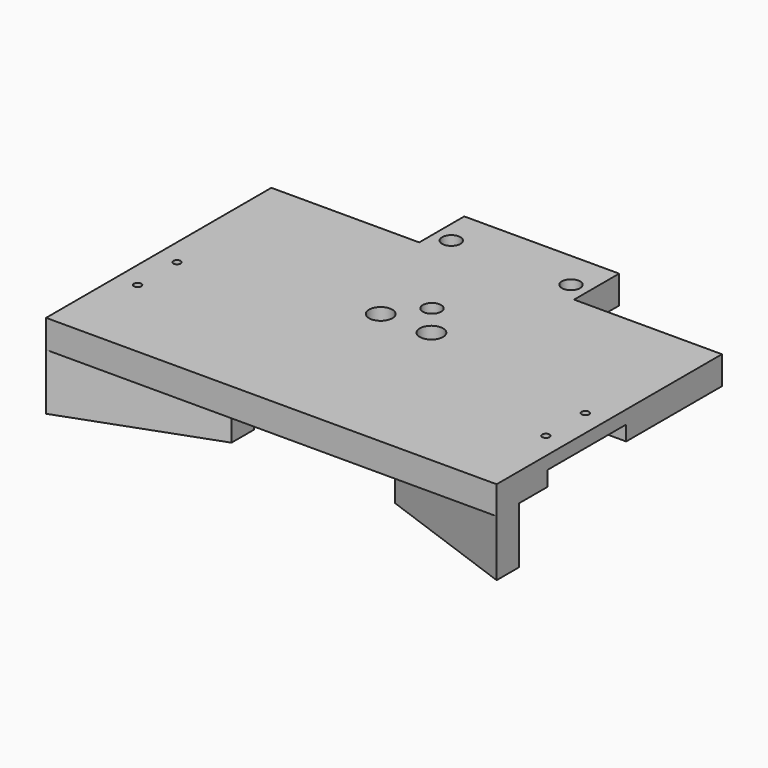
from build123d import *

# Parameters (mm, degrees)
SKETCH_W        = 160
SKETCH_H        = 100
PAD_DEPTH       = 10
PAD008_DEPTH    = 20
SKETCH029_R     = 4.15
POCKET017_DEPTH = 10
SKETCH031_W     = 55
SKETCH031_H     = 10
PAD010_DEPTH    = 20
SKETCH032_R     = 3
PAD011_DEPTH    = 2
SKETCH033_R     = 1.85
POCKET018_DEPTH = 12.001
SKETCH034_R     = 3.25
POCKET019_DEPTH = 5
SKETCH035_W     = 15
SKETCH035_H     = 35
POCKET020_DEPTH = 5.3
SKETCH036_R     = 1.3
POCKET021_DEPTH = 4.701


with BuildPart() as part:
    # Sketch → Pad (new body)
    with BuildSketch(Plane.XY):
        with Locations((80, 50)):
            Rectangle(SKETCH_W, SKETCH_H)
    extrude(amount=PAD_DEPTH)

    # Sketch001 (on Face5 of Pad) → Pad008 (join)
    with BuildSketch(Plane(origin=(0, 0, 0), x_dir=(1, 0, 0), z_dir=(0, 0, -1))):
        Polygon((0, -10), (0, 0), (51, -18.562482), (51, -28.562482), align=None)
        Polygon((160, 0), (160, -10), (109, -28.562482), (109, -18.562482), align=None)
    extrude(amount=PAD008_DEPTH)

    # Sketch029 (on Face2 of Pad008) → Pocket017 (cut)
    with BuildSketch(Plane(origin=(0, 0, 0), x_dir=(1, 0, 0), z_dir=(0, 0, -1))):
        with Locations((71, -59.794095)):
            Circle(SKETCH029_R)
        with Locations((89, -59.794095)):
            Circle(SKETCH029_R)
    extrude(amount=-POCKET017_DEPTH, mode=Mode.SUBTRACT)

    # Sketch031 (on Face6 of Pocket017) → Pad010 (join)
    with BuildSketch(Plane(origin=(0, 100, 0), x_dir=(-1, 0, 0), z_dir=(0, 1, 0))):
        with Locations((-80, 5)):
            Rectangle(SKETCH031_W, SKETCH031_H)
    extrude(amount=PAD010_DEPTH)

    # Sketch032 (on Face17 of Pad010) → Pad011 (join)
    with BuildSketch(Plane(origin=(0, 0, 0), x_dir=(1, 0, 0), z_dir=(0, 0, -1))):
        with Locations((80, -71.294095)):
            Circle(SKETCH032_R)
        with Locations((101.25, -106.449251)):
            Circle(SKETCH032_R)
        with Locations((58.75, -106.449251)):
            Circle(SKETCH032_R)
    extrude(amount=PAD011_DEPTH)

    # Sketch033 (on Face26 of Pad011) → Pocket018 (cut, through all)
    with BuildSketch(Plane(origin=(0, 0, -2), x_dir=(1, 0, 0), z_dir=(0, 0, -1))):
        with Locations((58.75, -106.449251)):
            Circle(SKETCH033_R)
        with Locations((101.25, -106.449251)):
            Circle(SKETCH033_R)
        with Locations((80, -71.294095)):
            Circle(SKETCH033_R)
    extrude(amount=-POCKET018_DEPTH, mode=Mode.SUBTRACT)

    # Sketch034 (on Face5 of Pocket018) → Pocket019 (cut)
    with BuildSketch(Plane.XY.offset(10)):
        with Locations((58.75, 106.449251)):
            Circle(SKETCH034_R)
        with Locations((101.25, 106.449251)):
            Circle(SKETCH034_R)
        with Locations((80, 71.294095)):
            Circle(SKETCH034_R)
    extrude(amount=-POCKET019_DEPTH, mode=Mode.SUBTRACT)

    # Sketch035 (on Face4 of Pocket019) → Pocket020 (cut)
    with BuildSketch(Plane(origin=(0, 0, 0), x_dir=(1, 0, 0), z_dir=(0, 0, -1))):
        with Locations((152.5, -40)):
            Rectangle(SKETCH035_W, SKETCH035_H)
        with Locations((7.5, -40)):
            Rectangle(SKETCH035_W, SKETCH035_H)
    extrude(amount=-POCKET020_DEPTH, mode=Mode.SUBTRACT)

    # Sketch036 (on Face15 of Pocket020) → Pocket021 (cut, through all)
    with BuildSketch(Plane(origin=(0, 0, 5.3), x_dir=(1, 0, 0), z_dir=(0, 0, -1))):
        with Locations((152.5, -31.25)):
            Circle(SKETCH036_R)
        with Locations((152.5, -48.75)):
            Circle(SKETCH036_R)
        with Locations((7.5, -31.25)):
            Circle(SKETCH036_R)
        with Locations((7.5, -48.75)):
            Circle(SKETCH036_R)
    extrude(amount=-POCKET021_DEPTH, mode=Mode.SUBTRACT)


solid = part.part
